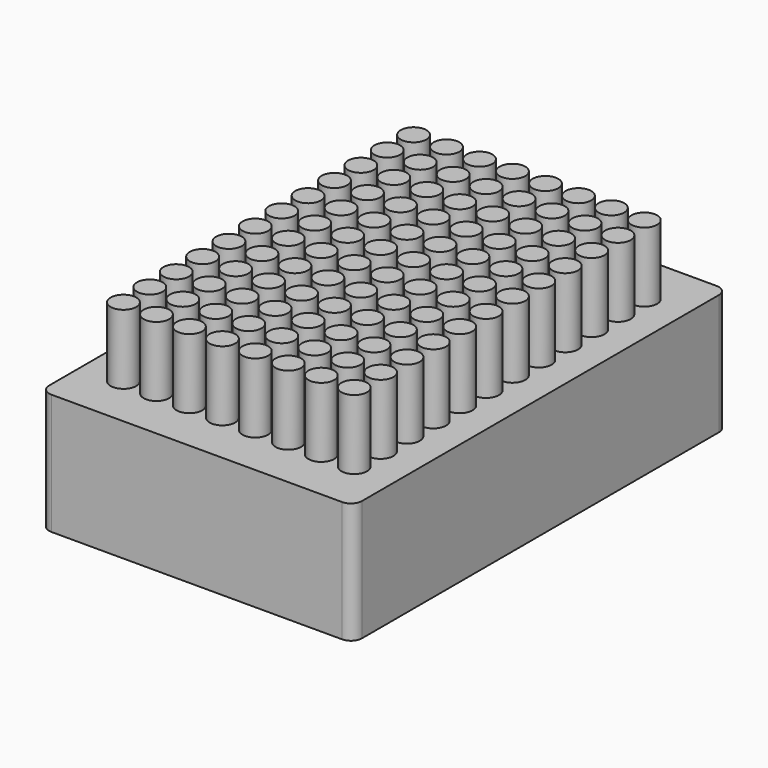
from build123d import *

# Parameters (mm, degrees)
F0_W     = 85.4
F0_H     = 127.8
F1_DEPTH = 52
F2_W     = 85.4
F2_H     = 127.8
F2_R     = 3.5
F3_DEPTH = 19
F4_R     = 3


with BuildPart() as f1:
    # F0 (on Top) → F1 (new body)
    with BuildSketch(Plane.XY):
        Rectangle(F0_W, F0_H)
    extrude(amount=F1_DEPTH)

    # F2 (on face) → F3 (cut)
    with BuildSketch(Plane.XY.offset(52)):
        Rectangle(F2_W, F2_H)
        with Locations((-31.54, -49.48)):
            Circle(F2_R, mode=Mode.SUBTRACT)
        with Locations((-22.54, -49.48)):
            Circle(F2_R, mode=Mode.SUBTRACT)
        with Locations((-31.54, -40.48)):
            Circle(F2_R, mode=Mode.SUBTRACT)
        with Locations((-22.54, -40.48)):
            Circle(F2_R, mode=Mode.SUBTRACT)
        with Locations((-13.54, -49.48)):
            Circle(F2_R, mode=Mode.SUBTRACT)
        with Locations((-4.54, -49.48)):
            Circle(F2_R, mode=Mode.SUBTRACT)
        with Locations((-13.54, -40.48)):
            Circle(F2_R, mode=Mode.SUBTRACT)
        with Locations((-4.54, -40.48)):
            Circle(F2_R, mode=Mode.SUBTRACT)
        with Locations((-31.54, -31.48)):
            Circle(F2_R, mode=Mode.SUBTRACT)
        with Locations((-22.54, -31.48)):
            Circle(F2_R, mode=Mode.SUBTRACT)
        with Locations((-31.54, -22.48)):
            Circle(F2_R, mode=Mode.SUBTRACT)
        with Locations((-22.54, -22.48)):
            Circle(F2_R, mode=Mode.SUBTRACT)
        with Locations((-31.54, -13.48)):
            Circle(F2_R, mode=Mode.SUBTRACT)
        with Locations((-22.54, -13.48)):
            Circle(F2_R, mode=Mode.SUBTRACT)
        with Locations((-31.54, -4.48)):
            Circle(F2_R, mode=Mode.SUBTRACT)
        with Locations((-22.54, -4.48)):
            Circle(F2_R, mode=Mode.SUBTRACT)
        with Locations((-13.54, -31.48)):
            Circle(F2_R, mode=Mode.SUBTRACT)
        with Locations((-13.54, -22.48)):
            Circle(F2_R, mode=Mode.SUBTRACT)
        with Locations((-4.54, -31.48)):
            Circle(F2_R, mode=Mode.SUBTRACT)
        with Locations((-4.54, -22.48)):
            Circle(F2_R, mode=Mode.SUBTRACT)
        with Locations((-13.54, -13.48)):
            Circle(F2_R, mode=Mode.SUBTRACT)
        with Locations((-13.54, -4.48)):
            Circle(F2_R, mode=Mode.SUBTRACT)
        with Locations((-4.54, -13.48)):
            Circle(F2_R, mode=Mode.SUBTRACT)
        with Locations((-4.54, -4.48)):
            Circle(F2_R, mode=Mode.SUBTRACT)
        with Locations((4.46, -49.48)):
            Circle(F2_R, mode=Mode.SUBTRACT)
        with Locations((13.46, -49.48)):
            Circle(F2_R, mode=Mode.SUBTRACT)
        with Locations((4.46, -40.48)):
            Circle(F2_R, mode=Mode.SUBTRACT)
        with Locations((13.46, -40.48)):
            Circle(F2_R, mode=Mode.SUBTRACT)
        with Locations((22.46, -49.48)):
            Circle(F2_R, mode=Mode.SUBTRACT)
        with Locations((31.46, -49.48)):
            Circle(F2_R, mode=Mode.SUBTRACT)
        with Locations((22.46, -40.48)):
            Circle(F2_R, mode=Mode.SUBTRACT)
        with Locations((31.46, -40.48)):
            Circle(F2_R, mode=Mode.SUBTRACT)
        with Locations((4.46, -31.48)):
            Circle(F2_R, mode=Mode.SUBTRACT)
        with Locations((4.46, -22.48)):
            Circle(F2_R, mode=Mode.SUBTRACT)
        with Locations((13.46, -31.48)):
            Circle(F2_R, mode=Mode.SUBTRACT)
        with Locations((13.46, -22.48)):
            Circle(F2_R, mode=Mode.SUBTRACT)
        with Locations((4.46, -13.48)):
            Circle(F2_R, mode=Mode.SUBTRACT)
        with Locations((4.46, -4.48)):
            Circle(F2_R, mode=Mode.SUBTRACT)
        with Locations((13.46, -13.48)):
            Circle(F2_R, mode=Mode.SUBTRACT)
        with Locations((13.46, -4.48)):
            Circle(F2_R, mode=Mode.SUBTRACT)
        with Locations((22.46, -31.48)):
            Circle(F2_R, mode=Mode.SUBTRACT)
        with Locations((31.46, -31.48)):
            Circle(F2_R, mode=Mode.SUBTRACT)
        with Locations((22.46, -22.48)):
            Circle(F2_R, mode=Mode.SUBTRACT)
        with Locations((31.46, -22.48)):
            Circle(F2_R, mode=Mode.SUBTRACT)
        with Locations((22.46, -13.48)):
            Circle(F2_R, mode=Mode.SUBTRACT)
        with Locations((31.46, -13.48)):
            Circle(F2_R, mode=Mode.SUBTRACT)
        with Locations((22.46, -4.48)):
            Circle(F2_R, mode=Mode.SUBTRACT)
        with Locations((31.46, -4.48)):
            Circle(F2_R, mode=Mode.SUBTRACT)
        with Locations((-31.54, 4.52)):
            Circle(F2_R, mode=Mode.SUBTRACT)
        with Locations((-22.54, 4.52)):
            Circle(F2_R, mode=Mode.SUBTRACT)
        with Locations((-31.54, 13.52)):
            Circle(F2_R, mode=Mode.SUBTRACT)
        with Locations((-22.54, 13.52)):
            Circle(F2_R, mode=Mode.SUBTRACT)
        with Locations((-31.54, 22.52)):
            Circle(F2_R, mode=Mode.SUBTRACT)
        with Locations((-22.54, 22.52)):
            Circle(F2_R, mode=Mode.SUBTRACT)
        with Locations((-31.54, 31.52)):
            Circle(F2_R, mode=Mode.SUBTRACT)
        with Locations((-22.54, 31.52)):
            Circle(F2_R, mode=Mode.SUBTRACT)
        with Locations((-13.54, 4.52)):
            Circle(F2_R, mode=Mode.SUBTRACT)
        with Locations((-13.54, 13.52)):
            Circle(F2_R, mode=Mode.SUBTRACT)
        with Locations((-4.54, 4.52)):
            Circle(F2_R, mode=Mode.SUBTRACT)
        with Locations((-4.54, 13.52)):
            Circle(F2_R, mode=Mode.SUBTRACT)
        with Locations((-13.54, 22.52)):
            Circle(F2_R, mode=Mode.SUBTRACT)
        with Locations((-13.54, 31.52)):
            Circle(F2_R, mode=Mode.SUBTRACT)
        with Locations((-4.54, 22.52)):
            Circle(F2_R, mode=Mode.SUBTRACT)
        with Locations((-4.54, 31.52)):
            Circle(F2_R, mode=Mode.SUBTRACT)
        with Locations((-31.54, 40.52)):
            Circle(F2_R, mode=Mode.SUBTRACT)
        with Locations((-22.54, 40.52)):
            Circle(F2_R, mode=Mode.SUBTRACT)
        with Locations((-31.54, 49.52)):
            Circle(F2_R, mode=Mode.SUBTRACT)
        with Locations((-22.54, 49.52)):
            Circle(F2_R, mode=Mode.SUBTRACT)
        with Locations((-13.54, 40.52)):
            Circle(F2_R, mode=Mode.SUBTRACT)
        with Locations((-4.54, 40.52)):
            Circle(F2_R, mode=Mode.SUBTRACT)
        with Locations((-13.54, 49.52)):
            Circle(F2_R, mode=Mode.SUBTRACT)
        with Locations((-4.54, 49.52)):
            Circle(F2_R, mode=Mode.SUBTRACT)
        with Locations((4.46, 4.52)):
            Circle(F2_R, mode=Mode.SUBTRACT)
        with Locations((4.46, 13.52)):
            Circle(F2_R, mode=Mode.SUBTRACT)
        with Locations((13.46, 4.52)):
            Circle(F2_R, mode=Mode.SUBTRACT)
        with Locations((13.46, 13.52)):
            Circle(F2_R, mode=Mode.SUBTRACT)
        with Locations((4.46, 22.52)):
            Circle(F2_R, mode=Mode.SUBTRACT)
        with Locations((4.46, 31.52)):
            Circle(F2_R, mode=Mode.SUBTRACT)
        with Locations((13.46, 22.52)):
            Circle(F2_R, mode=Mode.SUBTRACT)
        with Locations((13.46, 31.52)):
            Circle(F2_R, mode=Mode.SUBTRACT)
        with Locations((22.46, 4.52)):
            Circle(F2_R, mode=Mode.SUBTRACT)
        with Locations((31.46, 4.52)):
            Circle(F2_R, mode=Mode.SUBTRACT)
        with Locations((22.46, 13.52)):
            Circle(F2_R, mode=Mode.SUBTRACT)
        with Locations((31.46, 13.52)):
            Circle(F2_R, mode=Mode.SUBTRACT)
        with Locations((22.46, 22.52)):
            Circle(F2_R, mode=Mode.SUBTRACT)
        with Locations((31.46, 22.52)):
            Circle(F2_R, mode=Mode.SUBTRACT)
        with Locations((22.46, 31.52)):
            Circle(F2_R, mode=Mode.SUBTRACT)
        with Locations((31.46, 31.52)):
            Circle(F2_R, mode=Mode.SUBTRACT)
        with Locations((4.46, 40.52)):
            Circle(F2_R, mode=Mode.SUBTRACT)
        with Locations((13.46, 40.52)):
            Circle(F2_R, mode=Mode.SUBTRACT)
        with Locations((4.46, 49.52)):
            Circle(F2_R, mode=Mode.SUBTRACT)
        with Locations((13.46, 49.52)):
            Circle(F2_R, mode=Mode.SUBTRACT)
        with Locations((22.46, 40.52)):
            Circle(F2_R, mode=Mode.SUBTRACT)
        with Locations((31.46, 40.52)):
            Circle(F2_R, mode=Mode.SUBTRACT)
        with Locations((22.46, 49.52)):
            Circle(F2_R, mode=Mode.SUBTRACT)
        with Locations((31.46, 49.52)):
            Circle(F2_R, mode=Mode.SUBTRACT)
    extrude(amount=-F3_DEPTH, mode=Mode.SUBTRACT)

    # F4
    f4_edges = [f1.edges().sort_by_distance(p)[0] for p in [
        (-42.7, 63.9, 16.5),
        (-42.7, -63.9, 16.5),
        (42.7, -63.9, 16.5),
        (42.7, 63.9, 16.5),
    ]]
    fillet(f4_edges, radius=F4_R)


solid = f1.part
